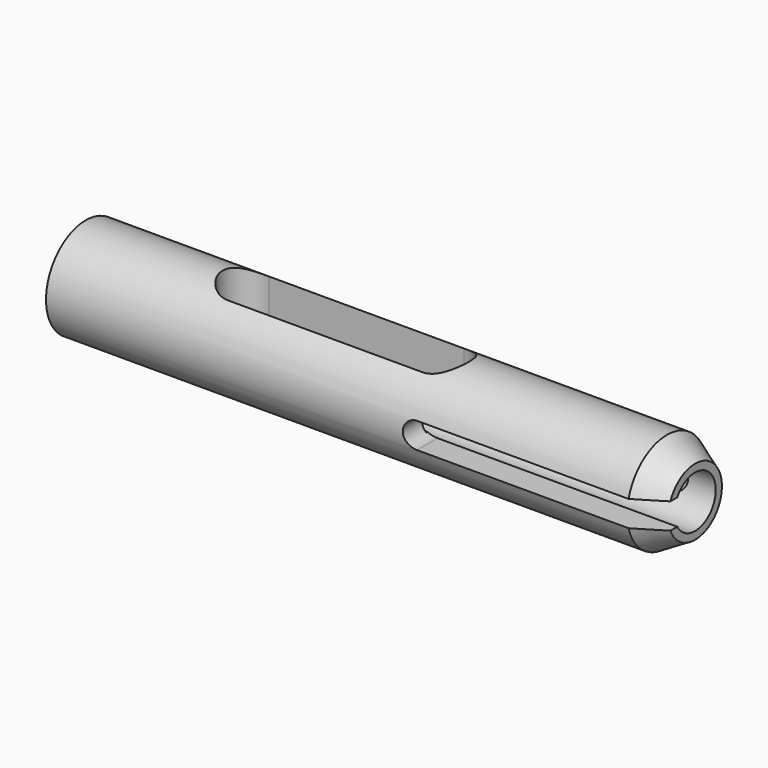
from build123d import *

# Parameters (mm, degrees)
F0_R           = 6.125
F1_DEPTH       = 75
F2_R           = 3.175
F3_DEPTH       = 35
F4_R           = 3
F5_DEPTH       = 15
F6_SIZE2       = 3.4641016151
F6_SIZE        = 2
F8_DEPTH       = 6.126
F8_DEPTH_BACK  = 1.17
F10_DEPTH      = 6.1260001
F10_DEPTH_BACK = 6.1260001
F11_W          = 15
F11_H          = 3.175
F12_DEPTH      = 25.0000003725
F13_R          = 1.5
F14_DEPTH      = 4.9560001


with BuildPart() as f1:
    # F0 (on Right) → F1 (new body)
    with BuildSketch(Plane.YZ):
        Circle(F0_R)
    extrude(amount=F1_DEPTH)

    # F2 (on face) → F3 (cut)
    with BuildSketch(Plane.YZ.offset(75)):
        Circle(F2_R)
    extrude(amount=-F3_DEPTH, mode=Mode.SUBTRACT)

    # F4 (on face) → F5 (cut)
    with BuildSketch(Plane(origin=(0, 0, 0), x_dir=(0, -1, 0), z_dir=(-1, 0, 0))):
        Circle(F4_R)
    extrude(amount=-F5_DEPTH, mode=Mode.SUBTRACT)

    # F6
    f6_edges = [f1.edges().sort_by_distance(p)[0] for p in [
        (75, -6.125, 0),
    ]]
    f6_side = f1.faces().sort_by_distance((75, -5.951759, 0))[0]
    chamfer(f6_edges, length=F6_SIZE, length2=F6_SIZE2, reference=f6_side)

    # F7 (on Top) → F8 (cut, two sides)
    with BuildSketch(Plane.XY) as f8_sk:
        with BuildLine():
            Line((44, 3.175), (20, 3.175))
            ThreePointArc((20, 3.175), (16.825, 0), (20, -3.175))
            Line((20, -3.175), (44, -3.175))
            ThreePointArc((44, -3.175), (47.175, 0), (44, 3.175))
        make_face()
    extrude(amount=F8_DEPTH, mode=Mode.SUBTRACT)
    extrude(f8_sk.sketch, amount=-F8_DEPTH_BACK, mode=Mode.SUBTRACT)

    # F9 (on Front) → F10 (cut, two sides)
    with BuildSketch(Plane.XZ) as f10_sk:
        with BuildLine():
            Line((70, 1.5875), (45.5, 1.5875))
            ThreePointArc((45.5, 1.5875), (43.9125, 0), (45.5, -1.5875))
            Line((45.5, -1.5875), (70, -1.5875))
            ThreePointArc((70, -1.5875), (71.5875, 0), (70, 1.5875))
        make_face()
    extrude(amount=-F10_DEPTH, mode=Mode.SUBTRACT)
    extrude(f10_sk.sketch, amount=F10_DEPTH_BACK, mode=Mode.SUBTRACT)

    # F11 (on Front) → F12 (cut)
    with BuildSketch(Plane.XZ):
        with Locations((70.5, 0)):
            Rectangle(F11_W, F11_H)
    extrude(amount=F12_DEPTH, mode=Mode.SUBTRACT)

    # F13 (on face) → F14 (cut, through all)
    with BuildSketch(Plane.XY.offset(-1.17)):
        with Locations((25, 0)):
            Circle(F13_R)
        with Locations((30, 0)):
            Circle(F13_R)
        with Locations((35, 0)):
            Circle(F13_R)
    extrude(amount=-F14_DEPTH, mode=Mode.SUBTRACT)


solid = f1.part
